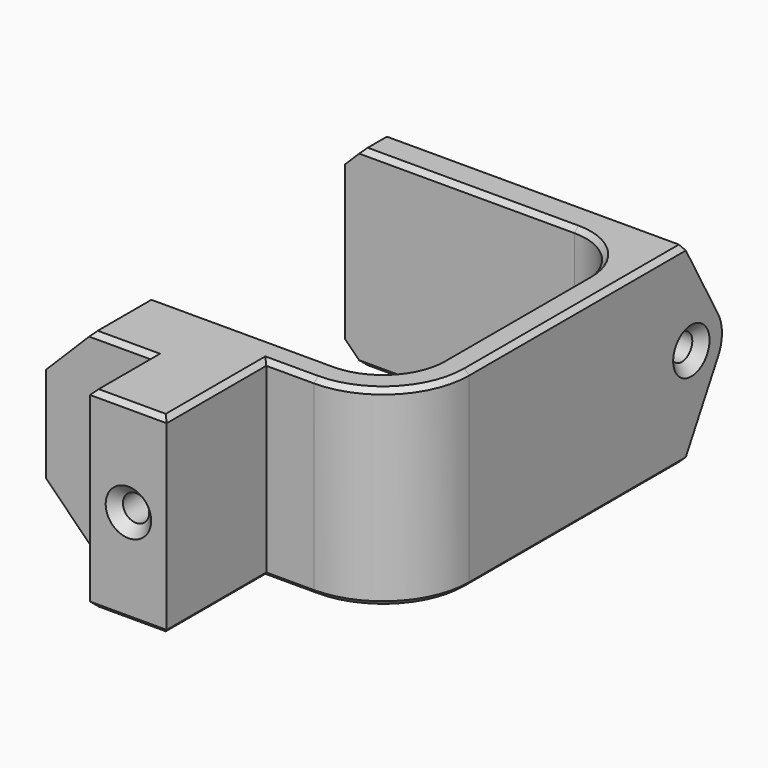
from build123d import *

# Parameters (mm, degrees)
BOX_W                = 10
BOX_H                = 50
BOX_DEPTH            = 33
SKETCH005_W          = 31
SKETCH005_H          = 30
SKETCH005_W_2        = 13
SKETCH005_H_2        = 14
SKETCH005_W_3        = 8
SKETCH005_H_3        = 11
POCKET003_DEPTH      = 10
CHAMFER009_SIZE      = 5
FILLET004_1_R        = 9
FILLET004_2_R        = 6
SKETCH010_R          = 1.375
POCKET006_DEPTH      = 8
SKETCH011_R          = 1.375
POCKET007_DEPTH      = 8
CHAMFER011_SIZE      = 1
PAD004_DEPTH         = 33
SKETCH016_R          = 1.375
POCKET011_DEPTH      = 8
SKETCH025_R          = 1.375
POCKET017_DEPTH      = 8
CHAMFER012_1_SIZE    = 2
CHAMFER012_2_SIZE    = 1
CHAMFER015_SIZE      = 0.5
CLONE003_PITCH_ANGLE = 90


with BuildPart() as batterybracketbatteryfillet004:
    # Box → Box (new body)
    with BuildSketch(Plane(origin=(0, 4.5, -15), x_dir=(1, 0, 0), z_dir=(0, 0, 1))):
        with Locations((5, 25)):
            Rectangle(BOX_W, BOX_H)
    extrude(amount=BOX_DEPTH)

    # Sketch005 → Pocket003 (cut)
    with BuildSketch(Plane(origin=(10, 4.5, -15), x_dir=(0, 1, 0), z_dir=(1, 0, 0))):
        with Locations((31.5, 15)):
            Rectangle(SKETCH005_W, SKETCH005_H)
        with Locations((6.5, 26)):
            Rectangle(SKETCH005_W_2, SKETCH005_H_2)
        with Locations((4, 5.5)):
            Rectangle(SKETCH005_W_3, SKETCH005_H_3)
    extrude(amount=-POCKET003_DEPTH, mode=Mode.SUBTRACT)

    # Chamfer009
    chamfer009_edges = [batterybracketbatteryfillet004.edges().sort_by_distance(p)[0] for p in [
        (10, 16.5, -15),
    ]]
    chamfer(chamfer009_edges, length=CHAMFER009_SIZE)

    # Fillet004 1
    fillet004_1_edges = [batterybracketbatteryfillet004.edges().sort_by_distance(p)[0] for p in [
        (5, 17.5, 18),
    ]]
    fillet(fillet004_1_edges, radius=FILLET004_1_R)

    # Fillet004 2
    fillet004_2_edges = [batterybracketbatteryfillet004.edges().sort_by_distance(p)[0] for p in [
        (5, 20.5, 15),
        (5, 51.5, 15),
    ]]
    fillet(fillet004_2_edges, radius=FILLET004_2_R)


with BuildPart() as clone003:
    # Part__Mirroring003: instance of BatteryBracketBatteryFillet004
    add(batterybracketbatteryfillet004.part.mirror(Plane(origin=(0, 0, 0), x_dir=(0, -1, 0), z_dir=(1, 0, 0))))

    # Fusion: union BatteryBracketBatteryFillet004
    add(batterybracketbatteryfillet004.part)

    # Sketch010 → Pocket006 (cut)
    with BuildSketch(Plane.XZ.offset(-4.5)):
        Circle(SKETCH010_R)
    extrude(amount=-POCKET006_DEPTH, mode=Mode.SUBTRACT)

    # Sketch011 → Pocket007 (cut)
    with BuildSketch(Plane(origin=(0, 0, -15), x_dir=(1, 0, 0), z_dir=(0, 0, -1))):
        with Locations((0, -16.5)):
            Circle(SKETCH011_R)
    extrude(amount=-POCKET007_DEPTH, mode=Mode.SUBTRACT)

    # Chamfer011
    chamfer011_edges = [clone003.edges().sort_by_distance(p)[0] for p in [
        (-1.375, 4.5, 0),
        (-1.375, 16.5, -15),
    ]]
    chamfer(chamfer011_edges, length=CHAMFER011_SIZE)

    # Sketch015 → Pad004 (new body)
    with BuildSketch(Plane.XY.offset(18)):
        with BuildLine():
            Line((10, 54.5), (1.949289, 58.992889))
            ThreePointArc((1.949289, 58.992889), (0, 59.5), (-1.949289, 58.992889))
            Line((-1.949289, 58.992889), (-10, 54.5))
            Line((-10, 54.5), (10, 54.5))
        make_face()
    extrude(amount=-PAD004_DEPTH)

    # Sketch016 → Pocket011 (cut)
    with BuildSketch(Plane.XY.offset(18)):
        with Locations((0, 55.5)):
            Circle(SKETCH016_R)
    extrude(amount=-POCKET011_DEPTH, mode=Mode.SUBTRACT)

    # Sketch025 → Pocket017 (cut)
    with BuildSketch(Plane(origin=(0, 0, -15), x_dir=(1, 0, 0), z_dir=(0, 0, -1))):
        with Locations((0, -55.5)):
            Circle(SKETCH025_R)
    extrude(amount=-POCKET017_DEPTH, mode=Mode.SUBTRACT)

    # Chamfer012 1
    chamfer012_1_edges = [clone003.edges().sort_by_distance(p)[0] for p in [
        (-10, 53, -15),
        (10, 53, -15),
    ]]
    chamfer(chamfer012_1_edges, length=CHAMFER012_1_SIZE)

    # Chamfer012 2
    chamfer012_2_edges = [clone003.edges().sort_by_distance(p)[0] for p in [
        (-1.375, 55.5, -15),
        (-1.375, 55.5, 18),
    ]]
    chamfer(chamfer012_2_edges, length=CHAMFER012_2_SIZE)

    # Chamfer015
    chamfer015_edges = [clone003.edges().sort_by_distance(p)[0] for p in [
        (-10, 51.5, -2),
        (-10, 49.742641, 13.242641),
        (-10, 36, 15),
        (-10, 40.5, 18),
        (-10, 22.257359, 13.242641),
        (-10, 20.136039, 15.363961),
        (-10, 20.5, -0.5),
        (-10, 17.5, 6.5),
        (-10, 11, 4),
        (-10, 12.5, -7),
        (-10, 4.5, 0),
        (-10, 8.5, -4),
        (10, 51.5, -2),
        (10, 36, 15),
        (10, 40.5, 18),
        (10, 20.5, -0.5),
        (10, 17.5, 6.5),
        (10, 11, 4),
        (10, 12.5, -7),
        (10, 4.5, 0),
        (10, 8.5, -4),
        (10, 49.742641, 13.242641),
        (10, 22.257359, 13.242641),
        (10, 20.136039, 15.363961),
    ]]
    chamfer(chamfer015_edges, length=CHAMFER015_SIZE)


with BuildPart() as clone003_1:
    # Clone003 pitch: moved
    add(clone003.part.rotate(Axis((0, 0, 0), (0, 1, 0)), CLONE003_PITCH_ANGLE))


with BuildPart() as clone003_2:
    # Clone003 placement: moved
    add(clone003_1.part.moved(Location((-102, 25, -28))))


solid = clone003_2.part
